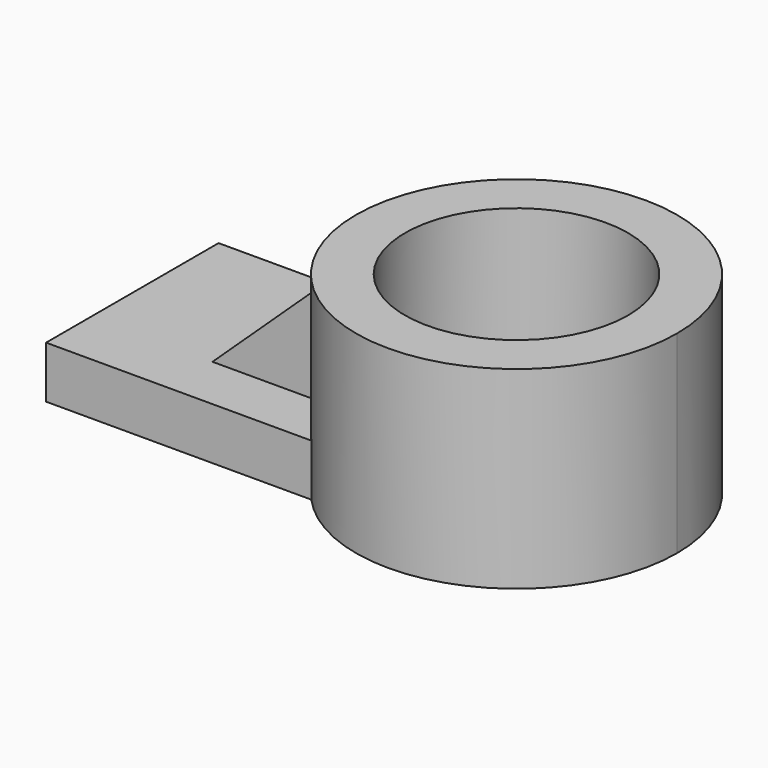
from build123d import *

# Parameters (mm, degrees)
F0_R     = 27.251254
F1_DEPTH = 47.244
F2_DEPTH = 12.7
F4_DEPTH = 25.4
F6_DEPTH = 51.905433


with BuildPart() as f1:
    # F0 (on Top) → F1 (new body)
    with BuildSketch(Plane.XY):
        with BuildLine():
            ThreePointArc((-29.068472, -26.332406), (14.11109, -36.595749), (39.222081, 0))
            ThreePointArc((39.222081, 0), (14.11109, 36.595749), (-29.068472, 26.332406))
            ThreePointArc((-29.068472, 26.332406), (-39.222081, 0), (-29.068472, -26.332406))
        make_face()
        Circle(F0_R, mode=Mode.SUBTRACT)
    extrude(amount=F1_DEPTH)

    # F0 (on Top) → F2 (join)
    with BuildSketch(Plane.XY):
        with BuildLine():
            ThreePointArc((-29.068472, -26.332406), (-39.222081, 0), (-29.068472, 26.332406))
            Line((-29.068472, 26.332406), (-93.851398, 26.332406))
            Line((-93.851398, 26.332406), (-93.851398, -26.332406))
            Line((-93.851398, -26.332406), (-29.068472, -26.332406))
        make_face()
    extrude(amount=F2_DEPTH)

    # F3 (on face) → F4 (join)
    with BuildSketch(Plane.XY.offset(12.7)):
        with BuildLine():
            ThreePointArc((-37.115086, -12.682351), (-39.222081, 0), (-37.115086, 12.682351))
            Line((-37.115086, 12.682351), (-64.119155, 12.682351))
            Line((-64.119155, 12.682351), (-64.119155, -12.682351))
            Line((-64.119155, -12.682351), (-37.115086, -12.682351))
        make_face()
    extrude(amount=F4_DEPTH)

    # F5 (on face) → F6 (cut, through all)
    with BuildSketch(Plane.XZ.offset(12.682351)):
        Polygon((-64.119155, 12.7), (-37.115086, 38.1), (-64.119155, 38.1), align=None)
    extrude(amount=-F6_DEPTH, mode=Mode.SUBTRACT)


solid = f1.part
